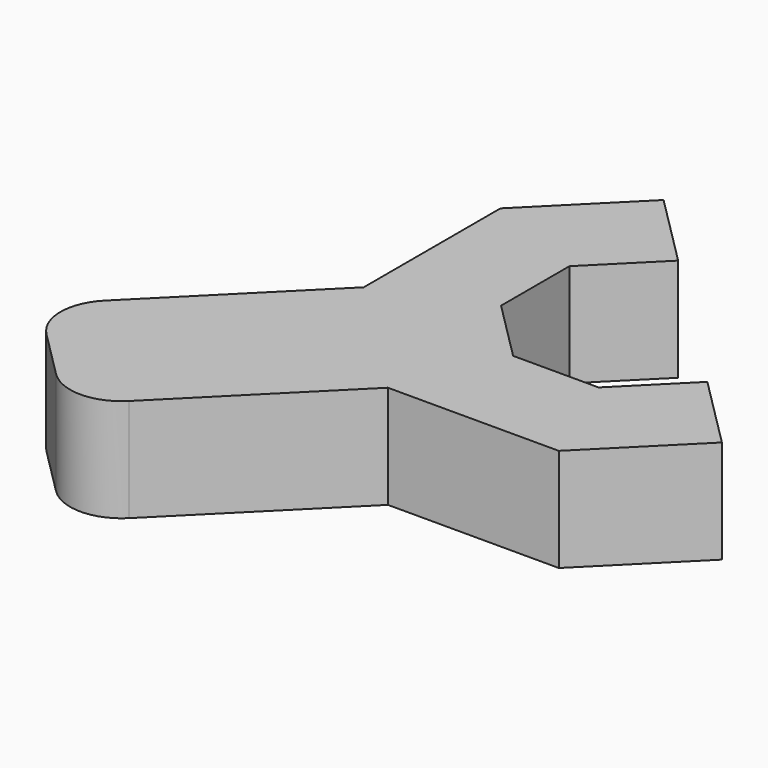
from build123d import *

# Parameters (mm, degrees)
F1_DEPTH = 2


with BuildPart() as f1:
    # F0 (on Top) → F1 (new body)
    with BuildSketch(Plane.XY):
        with BuildLine():
            Line((3.414213, -2.242642), (2, -0.828427))
            Line((2, -0.828427), (0.828427, -2))
            Line((0.828427, -2), (-0.828427, -2))
            Line((-0.828427, -2), (-2, -0.828427))
            Line((-2, -0.828427), (-2, 0.828427))
            Line((-2, 0.828427), (-0.82843, 1.999997))
            Line((-0.82843, 1.999997), (-2.242644, 3.414211))
            Line((-2.242644, 3.414211), (-4, 1.656854))
            Line((-4, 1.656854), (-4, -1.656854))
            Line((-4, -1.656854), (-6.788846, -4.4457))
            ThreePointArc((-6.788846, -4.4457), (-7.081739, -5.152807), (-6.788846, -5.859914))
            Line((-6.788846, -5.859914), (-5.859914, -6.788846))
            ThreePointArc((-5.859914, -6.788846), (-5.152807, -7.081739), (-4.4457, -6.788846))
            Line((-4.4457, -6.788846), (-1.656854, -4))
            Line((-1.656854, -4), (1.656854, -4))
            Line((1.656854, -4), (3.414213, -2.242642))
        make_face()
    extrude(amount=F1_DEPTH)


solid = f1.part
